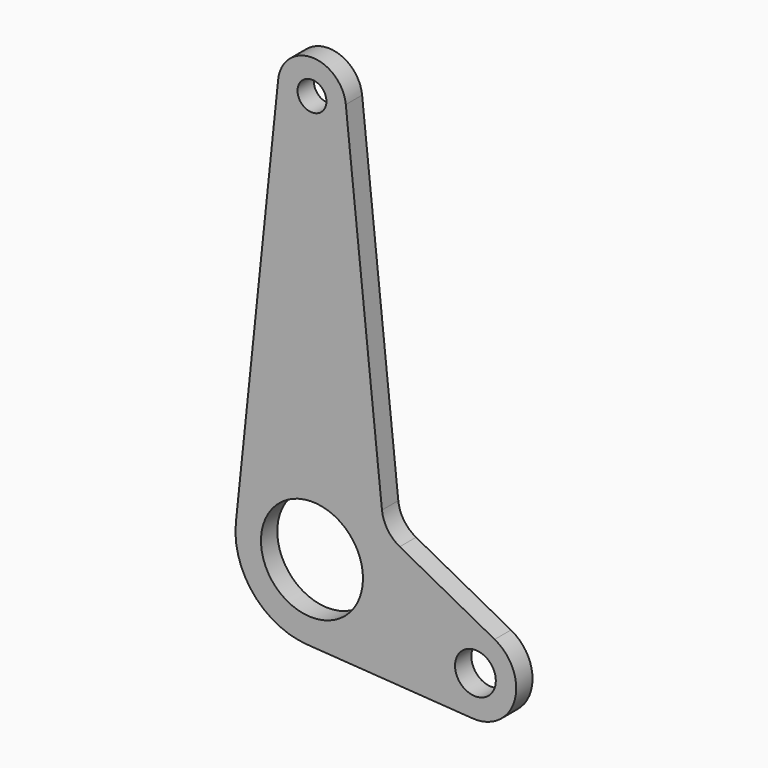
from build123d import *

# Parameters (mm, degrees)
F0_R     = 15
F0_R_2   = 6
F0_R_3   = 4.25
F1_DEPTH = 6


with BuildPart() as f1:
    # F0 (on Front) → F1 (new body)
    with BuildSketch(Plane.XZ):
        with BuildLine():
            Line((-9.945599, 121.041667), (-22.377597, 2.34375))
            ThreePointArc((-22.377597, 2.34375), (-17.217914, -14.484248), (-1.521587, -22.448492))
            Line((-1.521587, -22.448492), (47.251572, -25.754397))
            ThreePointArc((47.251572, -25.754397), (59.597932, -17.090538), (53.721232, -3.199554))
            Line((53.721232, -3.199554), (25.814877, 11.721405))
            ThreePointArc((25.814877, 11.721405), (22.232244, 14.959028), (20.584437, 19.497993))
            Line((20.584437, 19.497993), (9.945599, 121.041667))
            ThreePointArc((9.945599, 121.041667), (0, 130), (-9.945599, 121.041667))
        make_face()
        Circle(F0_R, mode=Mode.SUBTRACT)
        with Locations((48.063085, -13.781868)):
            Circle(F0_R_2, mode=Mode.SUBTRACT)
        with Locations((0, 120)):
            Circle(F0_R_3, mode=Mode.SUBTRACT)
    extrude(amount=F1_DEPTH)


solid = f1.part
